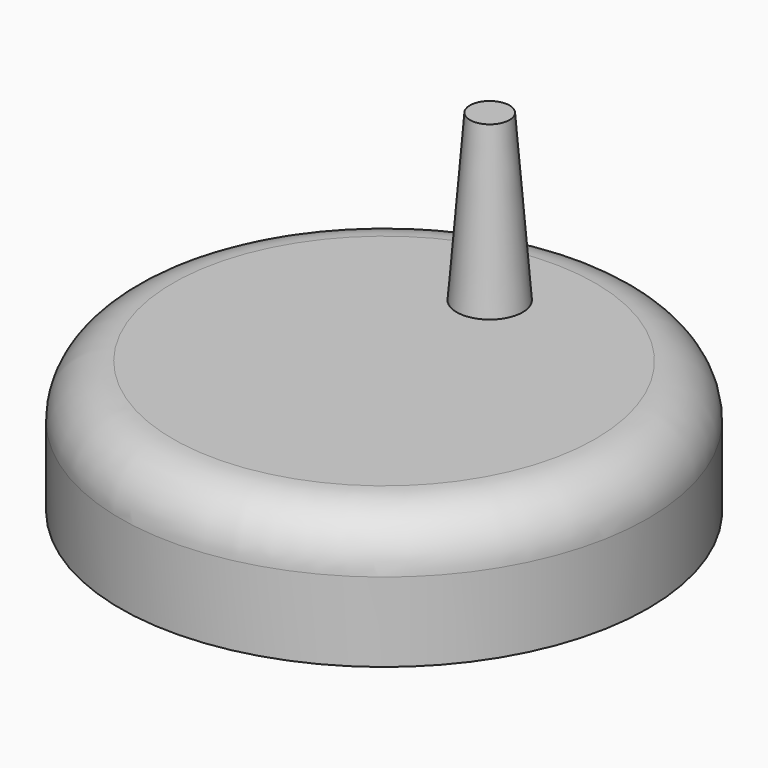
from build123d import *

# Parameters (mm, degrees)
F0_R     = 40
F0_R_2   = 5
F1_DEPTH = 20
F2_R     = 8
F3_DEPTH = 45
F4_SIZE2 = 2
F4_SIZE  = 25


with BuildPart() as f1:
    # F0 (on Top) → F1 (new body)
    with BuildSketch(Plane.XY):
        Circle(F0_R)
        with Locations((0, 20)):
            Circle(F0_R_2, mode=Mode.SUBTRACT)
    extrude(amount=F1_DEPTH)

    # F2
    f2_edges = [f1.edges().sort_by_distance(p)[0] for p in [
        (-40, 0, 20),
    ]]
    fillet(f2_edges, radius=F2_R)


with BuildPart() as f3:
    # F0 (on Top) → F3 (new body)
    with BuildSketch(Plane.XY):
        with Locations((0, 20)):
            Circle(F0_R_2)
    extrude(amount=F3_DEPTH)

    # F4
    f4_edges = [f3.edges().sort_by_distance(p)[0] for p in [
        (-5, 20, 45),
    ]]
    f4_side = f3.faces().sort_by_distance((-5, 20, 22.5))[0]
    chamfer(f4_edges, length=F4_SIZE, length2=F4_SIZE2, reference=f4_side)


solid = Compound([f1.part, f3.part])
